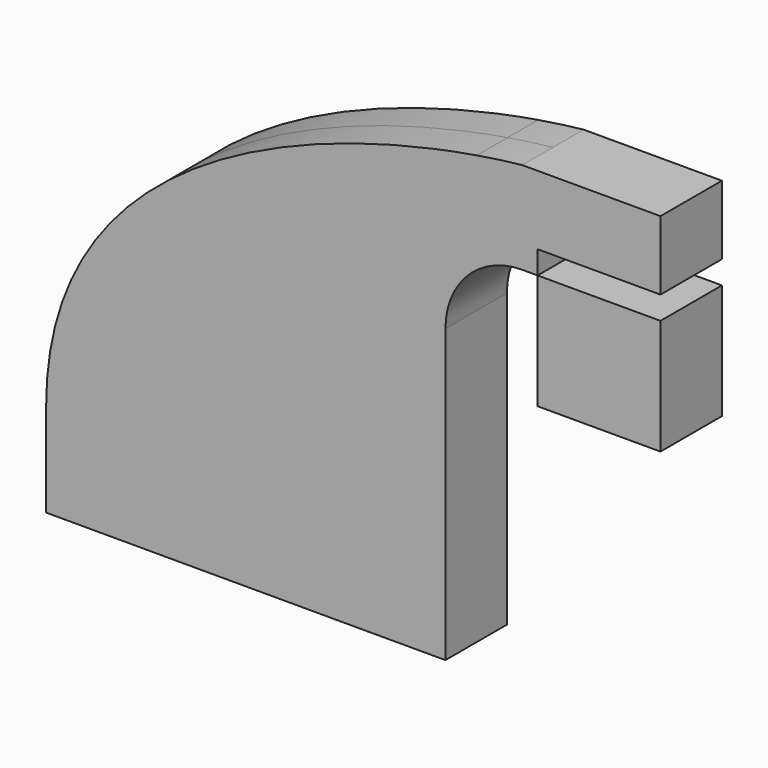
from build123d import *

# Parameters (mm, degrees)
F0_W     = 25.4
F0_H     = 23.7998
F1_DEPTH = 7.9375


with BuildPart() as f1:
    # F0 (on Front) → F1 (new body, symmetric)
    with BuildSketch(Plane.XZ):
        Polygon((-41.275, 9.525), (-41.275, -9.525), (41.275, -9.525), (41.275, 9.525), (22.225, 9.525), align=None)
        with BuildLine():
            Line((22.225, 9.525), (41.275, 9.525))
            Line((41.275, 9.525), (41.275, 50.8))
            ThreePointArc((41.275, 50.8), (45.92468, 62.02532), (57.15, 66.675))
            Line((57.15, 66.675), (60.325, 66.675))
            Line((60.325, 66.675), (60.325, 71.4502))
            Line((60.325, 71.4502), (85.725, 71.4502))
            Line((85.725, 71.4502), (85.725, 85.725))
            Line((85.725, 85.725), (57.15, 85.725))
            add(Edge.make_bspline(
                [(47.763571, 84.440014), (51.235378, 85.014644), (54.400437, 85.434174), (57.15, 85.725)],
                knots=[112.208504, 112.208504, 112.208504, 112.208504, 124.474578, 124.474578, 124.474578, 124.474578], degree=3))
            ThreePointArc((47.763571, 84.440014), (29.332949, 71.917938), (22.225, 50.8))
            Line((22.225, 50.8), (22.225, 9.525))
        make_face()
        with Locations((73.025, 54.7751)):
            Rectangle(F0_W, F0_H)
        with BuildLine():
            add(Edge.make_bspline(
                [(-41.275, 9.525), (-41.425515, 60.947434), (16.003916, 79.183376), (47.763571, 84.440014)],
                knots=[0, 0, 0, 0, 112.208504, 112.208504, 112.208504, 112.208504], degree=3))
            Line((-41.275, 9.525), (22.225, 9.525))
            Line((22.225, 9.525), (22.225, 50.8))
            ThreePointArc((22.225, 50.8), (29.332949, 71.917938), (47.763571, 84.440014))
        make_face()
    extrude(amount=F1_DEPTH, both=True)


solid = f1.part
